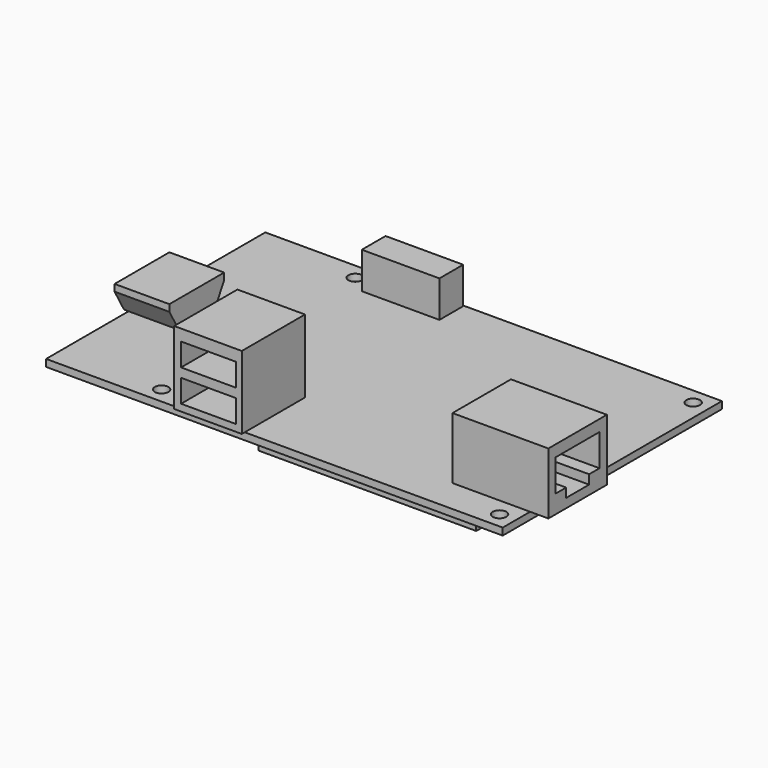
from build123d import *

# Parameters (mm, degrees)
F0_W      = 100
F0_H      = 60
F0_R      = 1.5
F1_DEPTH  = 1.55
F2_W      = 17
F2_H      = 16
F2_W_2    = 4
F3_DEPTH  = 13.5
F4_W      = 14.8
F4_H      = 16.5
F4_H_2    = 0.8
F5_DEPTH  = 16
F6_W      = 47.7
F6_H      = 4
F7_DEPTH  = 2
F8_W      = 17
F8_H      = 6.5
F9_DEPTH  = 8
F10_W     = 11
F10_H     = 15
F10_W_2   = 1
F11_DEPTH = 6
F12_W     = 6.3
F12_H     = 2
F13_DEPTH = 11
F14_W     = 12
F14_H     = 5
F15_DEPTH = 11
F17_DEPTH = 11
F19_DEPTH = 12


with BuildPart() as f1:
    # F0 (on Top) → F1 (new body)
    with BuildSketch(Plane.XY):
        Rectangle(F0_W, F0_H)
        with Locations((-27.5, -26.5)):
            Circle(F0_R, mode=Mode.SUBTRACT)
        with Locations((46.5, -26.5)):
            Circle(F0_R, mode=Mode.SUBTRACT)
        with Locations((-27.5, 26.5)):
            Circle(F0_R, mode=Mode.SUBTRACT)
        with Locations((46.5, 26.5)):
            Circle(F0_R, mode=Mode.SUBTRACT)
    extrude(amount=F1_DEPTH)

    # F2 (on face) → F3 (join)
    with BuildSketch(Plane.XY.offset(1.55)):
        with Locations((41.5, -14.5)):
            Rectangle(F2_W, F2_H)
        with Locations((52, -14.5)):
            Rectangle(F2_W_2, F2_H)
    extrude(amount=F3_DEPTH)

    # F4 (on face) → F5 (join)
    with BuildSketch(Plane.XY.offset(1.55)):
        with Locations((-13.9, -21.75)):
            Rectangle(F4_W, F4_H)
        with Locations((-13.9, -30.4)):
            Rectangle(F4_W, F4_H_2)
    extrude(amount=F5_DEPTH)

    # F6 (on face) → F7 (join)
    with BuildSketch(Plane(origin=(0, 0, 0), x_dir=(1, 0, 0), z_dir=(0, 0, -1))):
        with Locations((19.15, 26.5)):
            Rectangle(F6_W, F6_H)
        with Locations((19.15, -26.5)):
            Rectangle(F6_W, F6_H)
    extrude(amount=F7_DEPTH)

    # F8 (on face) → F9 (join)
    with BuildSketch(Plane.XY.offset(1.55)):
        with Locations((-15, 26.55)):
            Rectangle(F8_W, F8_H)
    extrude(amount=F9_DEPTH)

    # F10 (on face) → F11 (join)
    with BuildSketch(Plane.XY.offset(1.55)):
        with Locations((-44.5, -2.5)):
            Rectangle(F10_W, F10_H)
        with Locations((-50.5, -2.5)):
            Rectangle(F10_W_2, F10_H)
    extrude(amount=F11_DEPTH)

    # F12 (on face) → F13 (cut)
    with BuildSketch(Plane.YZ.offset(54)):
        Polygon((-8.5, 12.55), (-20.5, 12.55), (-20.5, 5.55), (-17.6502, 5.55), (-11.3502, 5.55), (-8.5, 5.55), align=None)
        with Locations((-14.5002, 4.55)):
            Rectangle(F12_W, F12_H)
    extrude(amount=-F13_DEPTH, mode=Mode.SUBTRACT)

    # F14 (on face) → F15 (cut)
    with BuildSketch(Plane.XZ.offset(30.8)):
        with Locations((-13.8, 12.55)):
            Rectangle(F14_W, F14_H)
        with Locations((-13.8, 5.55)):
            Rectangle(F14_W, F14_H)
    extrude(amount=-F15_DEPTH, mode=Mode.SUBTRACT)

    # F16 (on face) → F17 (cut)
    with BuildSketch(Plane(origin=(-51, 0, 0), x_dir=(0, -1, 0), z_dir=(-1, 0, 0))):
        Polygon((8.5, 6.35), (-3.5, 6.35), (-1.5, 2.85), (6.5, 2.85), align=None)
    extrude(amount=-F17_DEPTH, mode=Mode.SUBTRACT)

    # F18 (on face) → F19 (cut, through all)
    with BuildSketch(Plane(origin=(-51, 0, 0), x_dir=(0, -1, 0), z_dir=(-1, 0, 0))):
        Polygon((10, 6.064864339), (7.4200775205, 1.55), (10, 1.55), align=None)
        Polygon((-5, 1.55), (-2.4200775205, 1.55), (-5, 6.064864339), align=None)
    extrude(amount=-F19_DEPTH, mode=Mode.SUBTRACT)


solid = f1.part
